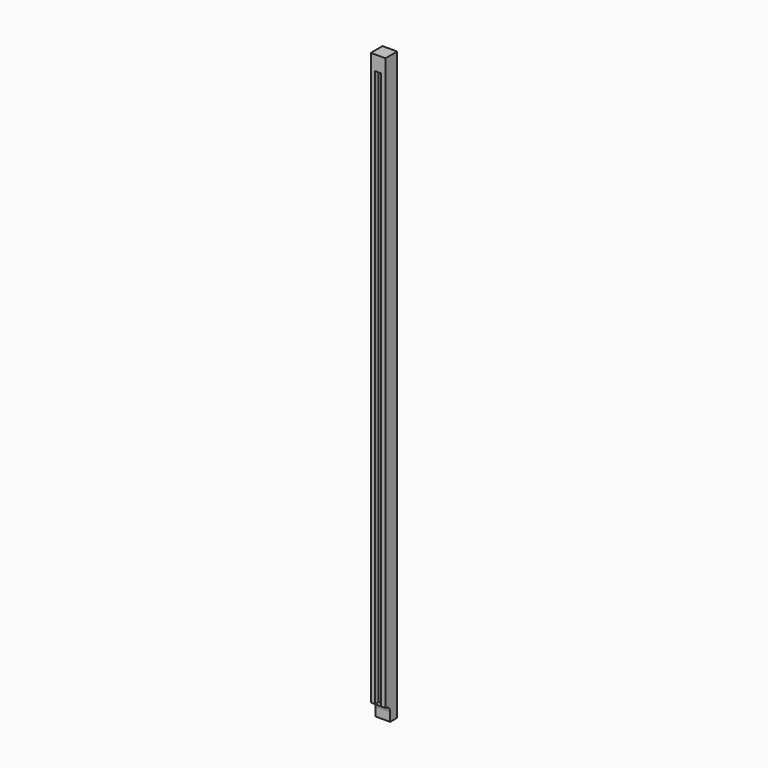
from build123d import *

# Parameters (mm, degrees)
F0_W     = 50
F0_H     = 50
F1_DEPTH = 2000
F2_W     = 20
F2_H     = 1900
F3_DEPTH = 15
F5_DEPTH = 50.001


with BuildPart() as f1:
    # F0 (on Top) → F1 (new body)
    with BuildSketch(Plane.XY):
        with Locations((25, 25)):
            Rectangle(F0_W, F0_H)
    extrude(amount=F1_DEPTH)

    # F2 (on Front) → F3 (cut)
    with BuildSketch(Plane.XZ):
        with Locations((25, 1000)):
            Rectangle(F2_W, F2_H)
    extrude(amount=-F3_DEPTH, mode=Mode.SUBTRACT)

    # F4 (on Right) → F5 (cut, through all)
    with BuildSketch(Plane.YZ):
        with BuildLine():
            Line((0, 50), (0, 0))
            Line((0, 0), (20, 0))
            Line((20, 0), (20, 30))
            ThreePointArc((20, 30), (14.142136, 44.142136), (0, 50))
        make_face()
    extrude(amount=F5_DEPTH, mode=Mode.SUBTRACT)


solid = f1.part
